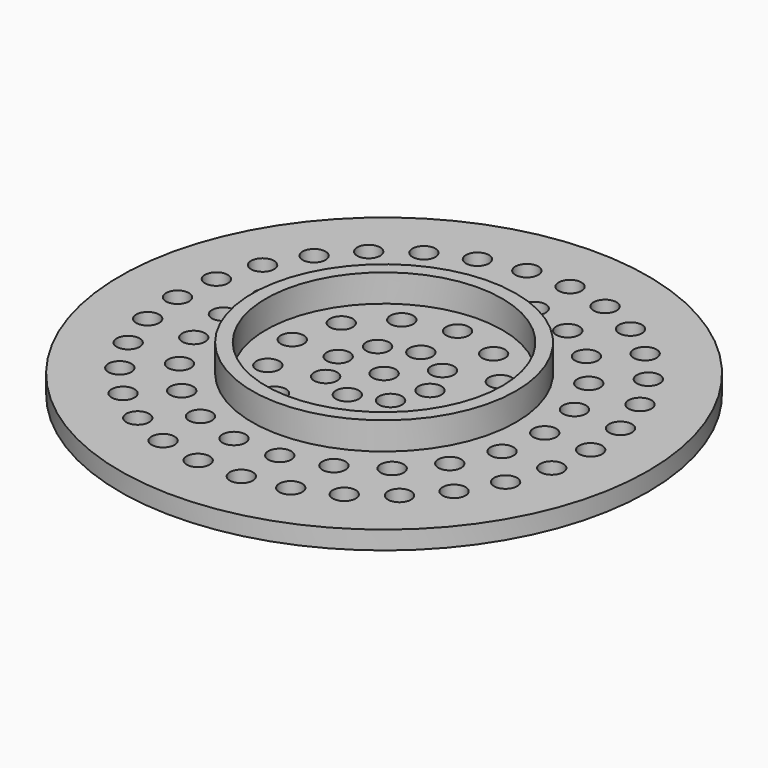
from build123d import *

# Parameters (mm, degrees)
CIRCLE_R         = 2.5
EXTRUDE_DEPTH    = 100
ARRAY_R          = 2.5
EXTRUDE001_DEPTH = 100
ARRAY001_R       = 2.5
EXTRUDE002_DEPTH = 100
ARRAY002_R       = 2.5
EXTRUDE003_DEPTH = 100
ARRAY003_R       = 2.5
EXTRUDE004_DEPTH = 100
SKETCH_R         = 57.5
PAD_DEPTH        = 4
SKETCH001_R      = 28.75
SKETCH001_R_2    = 25.75
PAD001_DEPTH     = 10


with BuildPart() as extrude_body:
    # Circle → Extrude (new body)
    with BuildSketch(Plane.XY):
        Circle(CIRCLE_R)
    extrude(amount=EXTRUDE_DEPTH)


with BuildPart() as extrude001:
    # Array → Extrude001 (new body)
    with BuildSketch(Plane(origin=(10, 0, 0), x_dir=(0, -1, 0), z_dir=(0, 0, -1))):
        Circle(ARRAY_R)
        with Locations((-7.071068, 2.928932)):
            Circle(ARRAY_R)
        with Locations((-10, 10)):
            Circle(ARRAY_R)
        with Locations((-7.071068, 17.071068)):
            Circle(ARRAY_R)
        with Locations((0, 20)):
            Circle(ARRAY_R)
        with Locations((7.071068, 17.071068)):
            Circle(ARRAY_R)
        with Locations((10, 10)):
            Circle(ARRAY_R)
        with Locations((7.071068, 2.928932)):
            Circle(ARRAY_R)
    extrude(amount=-EXTRUDE001_DEPTH)


with BuildPart() as extrude002:
    # Array001 → Extrude002 (new body)
    with BuildSketch(Plane(origin=(20, 0, 0), x_dir=(0, -1, 0), z_dir=(0, 0, -1))):
        Circle(ARRAY001_R)
        with Locations((-10, 2.679492)):
            Circle(ARRAY001_R)
        with Locations((-17.320508, 10)):
            Circle(ARRAY001_R)
        with Locations((-20, 20)):
            Circle(ARRAY001_R)
        with Locations((-17.320508, 30)):
            Circle(ARRAY001_R)
        with Locations((-10, 37.320508)):
            Circle(ARRAY001_R)
        with Locations((0, 40)):
            Circle(ARRAY001_R)
        with Locations((10, 37.320508)):
            Circle(ARRAY001_R)
        with Locations((17.320508, 30)):
            Circle(ARRAY001_R)
        with Locations((20, 20)):
            Circle(ARRAY001_R)
        with Locations((17.320508, 10)):
            Circle(ARRAY001_R)
        with Locations((10, 2.679492)):
            Circle(ARRAY001_R)
    extrude(amount=-EXTRUDE002_DEPTH)


with BuildPart() as extrude003:
    # Array002 → Extrude003 (new body)
    with BuildSketch(Plane(origin=(35, 0, 0), x_dir=(0, -1, 0), z_dir=(0, 0, -1))):
        Circle(ARRAY002_R)
        with Locations((-9.860639, 1.417746)):
            Circle(ARRAY002_R)
        with Locations((-18.922429, 5.556126)):
            Circle(ARRAY002_R)
        with Locations((-26.451235, 12.079874)):
            Circle(ARRAY002_R)
        with Locations((-31.83712, 20.460475)):
            Circle(ARRAY002_R)
        with Locations((-34.64375, 30.018981)):
            Circle(ARRAY002_R)
        with Locations((-34.64375, 39.981019)):
            Circle(ARRAY002_R)
        with Locations((-31.83712, 49.539525)):
            Circle(ARRAY002_R)
        with Locations((-26.451235, 57.920126)):
            Circle(ARRAY002_R)
        with Locations((-18.922429, 64.443874)):
            Circle(ARRAY002_R)
        with Locations((-9.860639, 68.582254)):
            Circle(ARRAY002_R)
        with Locations((0, 70)):
            Circle(ARRAY002_R)
        with Locations((9.860639, 68.582254)):
            Circle(ARRAY002_R)
        with Locations((18.922429, 64.443874)):
            Circle(ARRAY002_R)
        with Locations((26.451235, 57.920126)):
            Circle(ARRAY002_R)
        with Locations((31.83712, 49.539525)):
            Circle(ARRAY002_R)
        with Locations((34.64375, 39.981019)):
            Circle(ARRAY002_R)
        with Locations((34.64375, 30.018981)):
            Circle(ARRAY002_R)
        with Locations((31.83712, 20.460475)):
            Circle(ARRAY002_R)
        with Locations((26.451235, 12.079874)):
            Circle(ARRAY002_R)
        with Locations((18.922429, 5.556126)):
            Circle(ARRAY002_R)
        with Locations((9.860639, 1.417746)):
            Circle(ARRAY002_R)
    extrude(amount=-EXTRUDE003_DEPTH)


with BuildPart() as extrude004:
    # Array003 → Extrude004 (new body)
    with BuildSketch(Plane(origin=(45, 0, 0), x_dir=(0, -1, 0), z_dir=(0, 0, -1))):
        Circle(ARRAY003_R)
        with Locations((-9.356026, 0.983358)):
            Circle(ARRAY003_R)
        with Locations((-18.303149, 3.890454)):
            Circle(ARRAY003_R)
        with Locations((-26.450336, 8.594235)):
            Circle(ARRAY003_R)
        with Locations((-33.441517, 14.889123)):
            Circle(ARRAY003_R)
        with Locations((-38.971143, 22.5)):
            Circle(ARRAY003_R)
        with Locations((-42.797543, 31.094235)):
            Circle(ARRAY003_R)
        with Locations((-44.753485, 40.296219)):
            Circle(ARRAY003_R)
        with Locations((-44.753485, 49.703781)):
            Circle(ARRAY003_R)
        with Locations((-42.797543, 58.905765)):
            Circle(ARRAY003_R)
        with Locations((-38.971143, 67.5)):
            Circle(ARRAY003_R)
        with Locations((-33.441517, 75.110877)):
            Circle(ARRAY003_R)
        with Locations((-26.450336, 81.405765)):
            Circle(ARRAY003_R)
        with Locations((-18.303149, 86.109546)):
            Circle(ARRAY003_R)
        with Locations((-9.356026, 89.016642)):
            Circle(ARRAY003_R)
        with Locations((0, 90)):
            Circle(ARRAY003_R)
        with Locations((9.356026, 89.016642)):
            Circle(ARRAY003_R)
        with Locations((18.303149, 86.109546)):
            Circle(ARRAY003_R)
        with Locations((26.450336, 81.405765)):
            Circle(ARRAY003_R)
        with Locations((33.441517, 75.110877)):
            Circle(ARRAY003_R)
        with Locations((38.971143, 67.5)):
            Circle(ARRAY003_R)
        with Locations((42.797543, 58.905765)):
            Circle(ARRAY003_R)
        with Locations((44.753485, 49.703781)):
            Circle(ARRAY003_R)
        with Locations((44.753485, 40.296219)):
            Circle(ARRAY003_R)
        with Locations((42.797543, 31.094235)):
            Circle(ARRAY003_R)
        with Locations((38.971143, 22.5)):
            Circle(ARRAY003_R)
        with Locations((33.441517, 14.889123)):
            Circle(ARRAY003_R)
        with Locations((26.450336, 8.594235)):
            Circle(ARRAY003_R)
        with Locations((18.303149, 3.890454)):
            Circle(ARRAY003_R)
        with Locations((9.356026, 0.983358)):
            Circle(ARRAY003_R)
    extrude(amount=-EXTRUDE004_DEPTH)


with BuildPart() as cut004:
    # Sketch → Pad (new body)
    with BuildSketch(Plane.XY):
        Circle(SKETCH_R)
    extrude(amount=PAD_DEPTH)

    # Cut: cut Extrude004
    add(extrude004.part, mode=Mode.SUBTRACT)

    # Cut001: cut Extrude003
    add(extrude003.part, mode=Mode.SUBTRACT)

    # Cut002: cut Extrude002
    add(extrude002.part, mode=Mode.SUBTRACT)

    # Cut003: cut Extrude001
    add(extrude001.part, mode=Mode.SUBTRACT)

    # Cut004: cut Extrude body
    add(extrude_body.part, mode=Mode.SUBTRACT)


with BuildPart() as fusion:
    # Sketch001 → Pad001 (new body)
    with BuildSketch(Plane.XY):
        Circle(SKETCH001_R)
        Circle(SKETCH001_R_2, mode=Mode.SUBTRACT)
    extrude(amount=PAD001_DEPTH)

    # Fusion: union Cut004
    add(cut004.part)


solid = fusion.part
